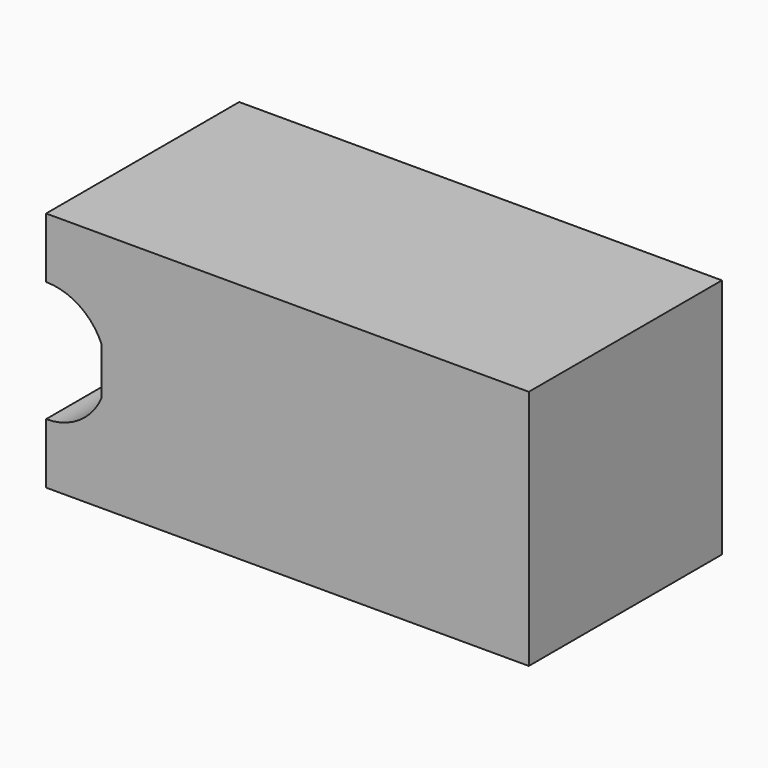
from build123d import *

# Parameters (mm, degrees)
F1_DEPTH = 10


with BuildPart() as f1:
    # F0 (on Front) → F1 (new body)
    with BuildSketch(Plane.XZ):
        with BuildLine():
            Line((2.3, 5.979796), (2.3, 4.020204))
            ThreePointArc((2.3, 4.020204), (2.5, 5), (2.3, 5.979796))
        make_face()
        with BuildLine():
            Line((0, 2.5), (0, 0))
            Line((0, 0), (20, 0))
            Line((20, 0), (20, 10))
            Line((20, 10), (0, 10))
            Line((0, 10), (0, 7.5))
            ThreePointArc((0, 7.5), (1.378497, 7.085604), (2.3, 5.979796))
            ThreePointArc((2.3, 5.979796), (2.5, 5), (2.3, 4.020204))
            ThreePointArc((2.3, 4.020204), (1.378497, 2.914396), (0, 2.5))
        make_face()
    extrude(amount=F1_DEPTH)


solid = f1.part
